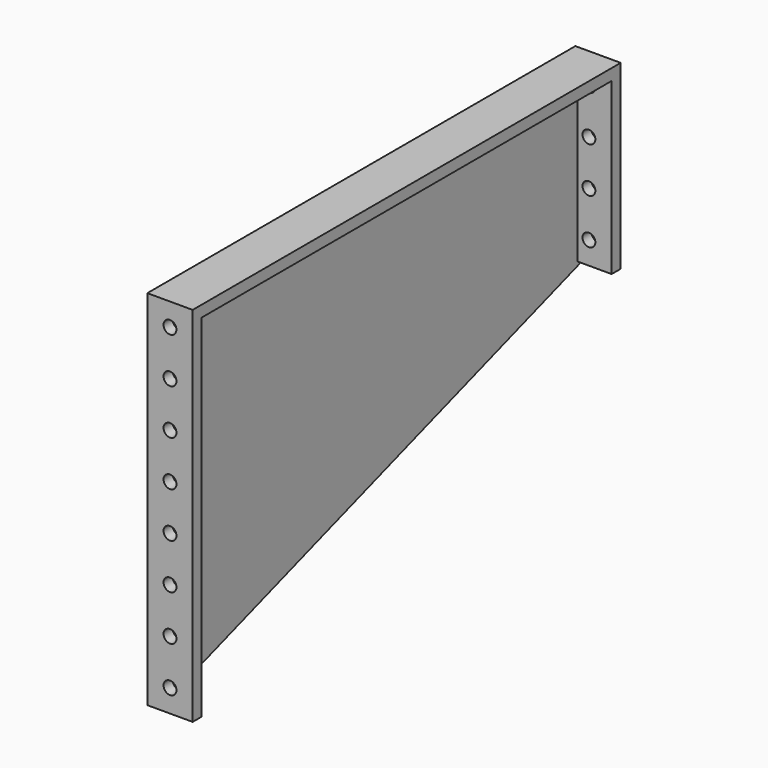
from build123d import *

# Parameters (mm, degrees)
F1_DEPTH = 3.175
F3_DEPTH = 9.525
F4_R     = 1.8034
F5_DEPTH = 149.861


with BuildPart() as f1:
    # F0 (on Right) → F1 (new body)
    with BuildSketch(Plane.YZ):
        Polygon((-48.322902, 60.276262), (-48.322902, -41.323738), (101.537098, 9.476262), (101.537098, 60.276262), align=None)
    extrude(amount=F1_DEPTH)

    # F2 (on face) → F3 (join)
    with BuildSketch(Plane.YZ.offset(3.175)):
        Polygon((-48.322902, 57.101262), (-48.322902, -41.323738), (-45.147902, -41.323738), (-45.147902, 57.101262), (98.362098, 57.101262), (98.362098, 9.476262), (101.537098, 9.476262), (101.537098, 57.101262), (101.537098, 60.276262), (-48.322902, 60.276262), align=None)
    extrude(amount=F3_DEPTH)

    # F4 (on face) → F5 (cut, through all)
    with BuildSketch(Plane.XZ.offset(48.322902)):
        with Locations((6.35, -34.973738)):
            Circle(F4_R)
        with Locations((6.35, -22.273738)):
            Circle(F4_R)
        with Locations((6.35, -9.573738)):
            Circle(F4_R)
        with Locations((6.35, 3.126262)):
            Circle(F4_R)
        with Locations((6.35, 15.826262)):
            Circle(F4_R)
        with Locations((6.35, 28.526262)):
            Circle(F4_R)
        with Locations((6.35, 41.226262)):
            Circle(F4_R)
        with Locations((6.35, 53.926262)):
            Circle(F4_R)
    extrude(amount=-F5_DEPTH, mode=Mode.SUBTRACT)


solid = f1.part
